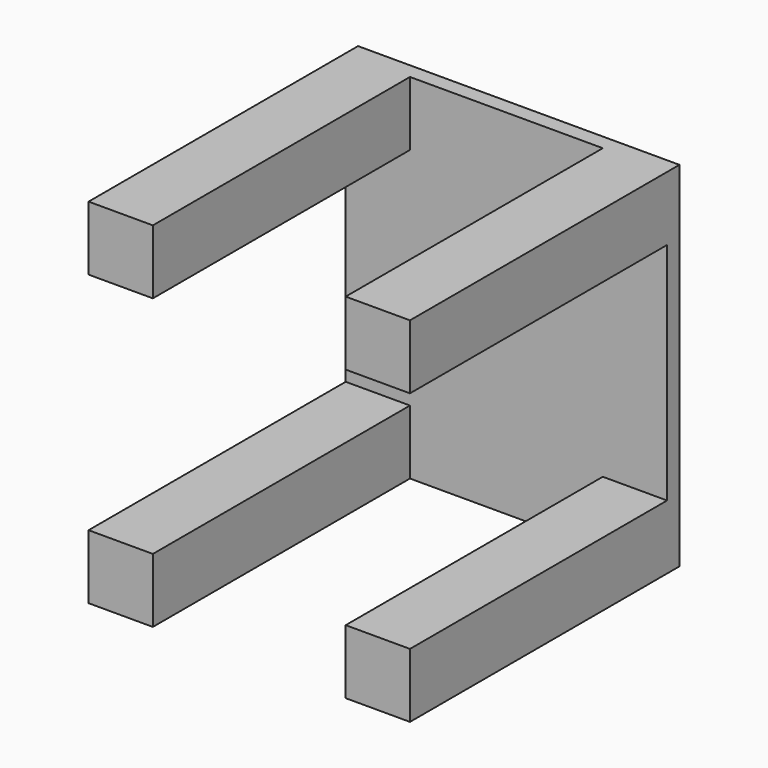
from build123d import *

# Parameters (mm, degrees)
F0_W     = 127
F0_H     = 139.7
F1_DEPTH = 6.096
F2_W     = 25.4
F2_H     = 25.4
F3_DEPTH = 127
F4_DEPTH = 127
F5_DEPTH = 127
F6_DEPTH = 127


with BuildPart() as f1:
    # F0 (on Front) → F1 (new body)
    with BuildSketch(Plane.XZ):
        Rectangle(F0_W, F0_H)
    extrude(amount=F1_DEPTH)

    # F2 (on face) → F3 (join)
    with BuildSketch(Plane.XZ.offset(6.096)):
        with Locations((-50.8, 57.15)):
            Rectangle(F2_W, F2_H)
    extrude(amount=F3_DEPTH)

    # F2 (on face) → F4 (join)
    with BuildSketch(Plane.XZ.offset(6.096)):
        with Locations((-50.8, -57.15)):
            Rectangle(F2_W, F2_H)
    extrude(amount=F4_DEPTH)

    # F2 (on face) → F5 (join)
    with BuildSketch(Plane.XZ.offset(6.096)):
        with Locations((50.8, 57.15)):
            Rectangle(F2_W, F2_H)
    extrude(amount=F5_DEPTH)

    # F2 (on face) → F6 (join)
    with BuildSketch(Plane.XZ.offset(6.096)):
        with Locations((50.8, -57.15)):
            Rectangle(F2_W, F2_H)
    extrude(amount=F6_DEPTH)


solid = f1.part
